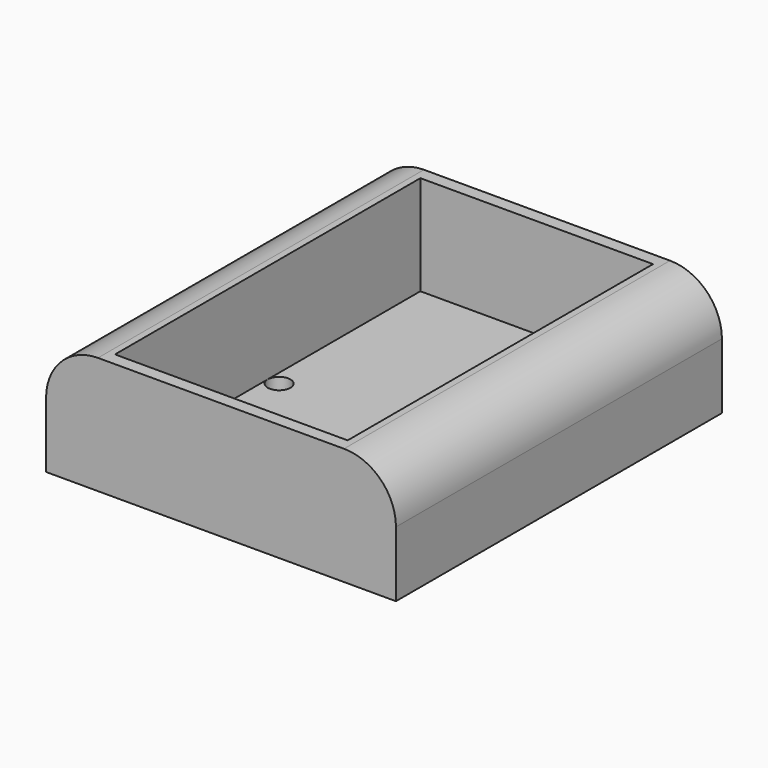
from build123d import *

# Parameters (mm, degrees)
SKETCH026_W           = 57.3
SKETCH026_H           = 49.2
SKETCH026_R           = 1.6
PAD010002001016_DEPTH = 16.5
FILLET004_R           = 7.3
SKETCH028_W           = 53.6778
SKETCH028_H           = 32.7182
POCKET001_DEPTH       = 14


with BuildPart() as part:
    # Sketch026 → Pad010002001016 (new body)
    with BuildSketch(Plane(origin=(48, -5, 22), x_dir=(0, 1, 0), z_dir=(0, 0, 1))):
        Rectangle(SKETCH026_W, SKETCH026_H)
        with Locations((0, 14.75)):
            Circle(SKETCH026_R, mode=Mode.SUBTRACT)
        with Locations((0, -14.75)):
            Circle(SKETCH026_R, mode=Mode.SUBTRACT)
    extrude(amount=PAD010002001016_DEPTH)

    # Fillet004
    fillet004_edges = [part.edges().sort_by_distance(p)[0] for p in [
        (72.6, -5, 38.5),
        (23.4, -5, 38.5),
    ]]
    fillet(fillet004_edges, radius=FILLET004_R)

    # Sketch028 → Pocket001 (cut)
    with BuildSketch(Plane(origin=(48, -5, 38.5), x_dir=(0, 1, 0), z_dir=(0, 0, 1))):
        Rectangle(SKETCH028_W, SKETCH028_H)
    extrude(amount=-POCKET001_DEPTH, mode=Mode.SUBTRACT)


solid = part.part
